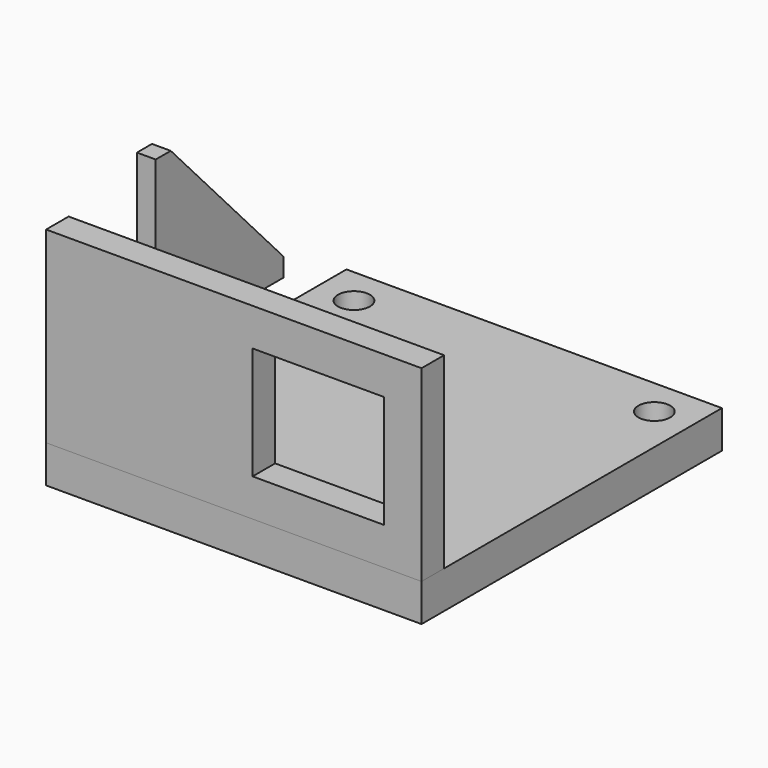
from build123d import *

# Parameters (mm, degrees)
F0_W     = 200
F0_H     = 200
F0_R     = 8.5
F1_DEPTH = 20
F2_W     = 200
F2_H     = 100
F3_DEPTH = 15
F5_DEPTH = 10
F6_W     = 70
F6_H     = 60
F7_DEPTH = 200.001


with BuildPart() as f1:
    # F0 (on Top) → F1 (new body)
    with BuildSketch(Plane.XY):
        with Locations((100, 100)):
            Rectangle(F0_W, F0_H)
        with Locations((20, 20)):
            Circle(F0_R, mode=Mode.SUBTRACT)
        with Locations((180, 16.14768)):
            Circle(F0_R, mode=Mode.SUBTRACT)
        with Locations((20, 180)):
            Circle(F0_R, mode=Mode.SUBTRACT)
        with Locations((180, 180)):
            Circle(F0_R, mode=Mode.SUBTRACT)
    extrude(amount=F1_DEPTH)


with BuildPart() as f3:
    # F2 (on Front) → F3 (new body)
    with BuildSketch(Plane.XZ):
        with Locations((100, 70)):
            Rectangle(F2_W, F2_H)
    extrude(amount=-F3_DEPTH)

    # F6 (on Front) → F7 (cut, through all)
    with BuildSketch(Plane.XZ):
        with Locations((145, 70)):
            Rectangle(F6_W, F6_H)
    extrude(amount=-F7_DEPTH, mode=Mode.SUBTRACT)


with BuildPart() as f5:
    # F4 (on Right) → F5 (new body)
    with BuildSketch(Plane.YZ):
        Polygon((70.496109, 131.493771), (60.496109, 131.493771), (60.496109, 51.493771), (70.496109, 41.493771), (145.496109, 41.493771), (145.496109, 51.493771), align=None)
    extrude(amount=F5_DEPTH)


solid = Compound([f1.part, f3.part, f5.part])
